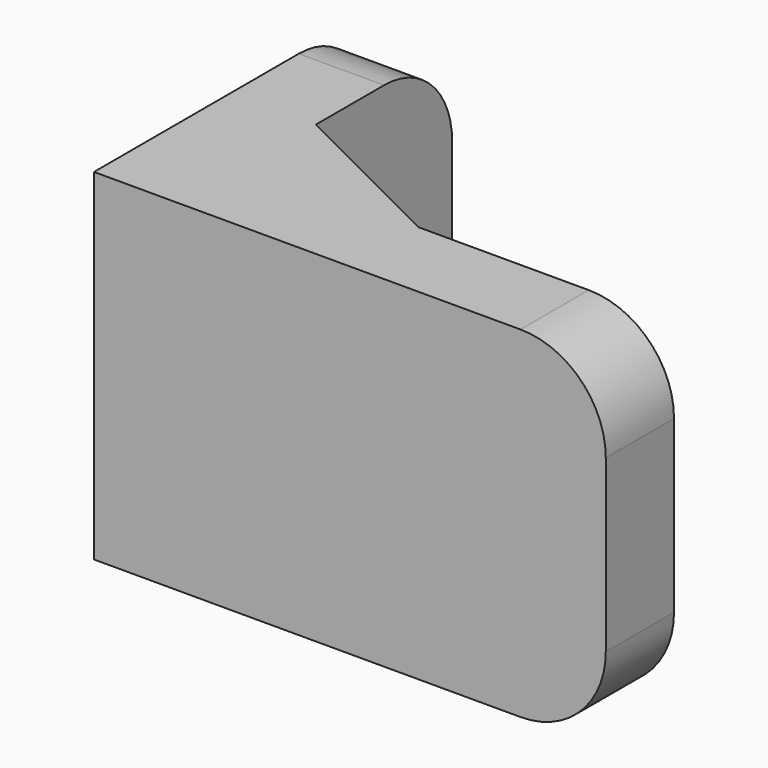
from build123d import *

# Parameters (mm, degrees)
F1_DEPTH = 40
F2_R     = 10


with BuildPart() as f1:
    # F0 (on Top) → F1 (new body)
    with BuildSketch(Plane.XY):
        Polygon((0, 40), (0, 0), (60, 0), (60, 10), (30, 10), (10, 20), (10, 40), align=None)
    extrude(amount=F1_DEPTH)

    # F2
    f2_edges = [f1.edges().sort_by_distance(p)[0] for p in [
        (5, 40, 40),
        (5, 40, 0),
        (60, 5, 40),
        (60, 5, 0),
    ]]
    fillet(f2_edges, radius=F2_R)


solid = f1.part
